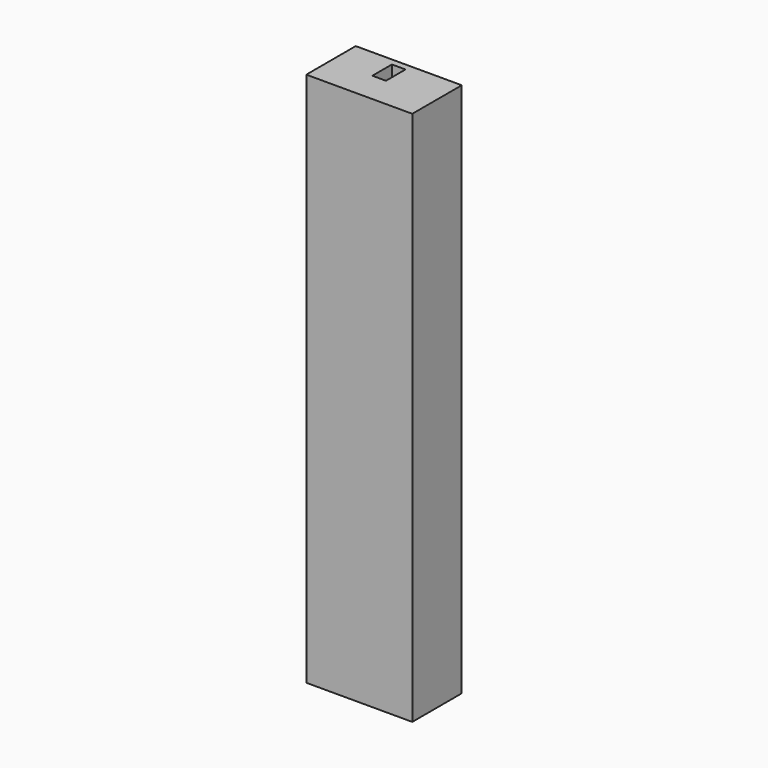
from build123d import *

# Parameters (mm, degrees)
F1_W     = 1584.075571
F1_H     = 924.044102
F2_DEPTH = 8000
F3_W     = 203.515396
F3_H     = 364.958607
F4_DEPTH = 6000


with BuildPart() as f2:
    # F1 (on face) → F2 (new body)
    with BuildSketch(Plane.XY):
        with Locations((-30.742467, 78.487888)):
            Rectangle(F1_W, F1_H)
    extrude(amount=F2_DEPTH)

    # F3 (on face) → F4 (cut)
    with BuildSketch(Plane.XY.offset(8000)):
        with Locations((-101.757698, 259.02592)):
            Rectangle(F3_W, F3_H)
    extrude(amount=-F4_DEPTH, mode=Mode.SUBTRACT)


solid = f2.part
